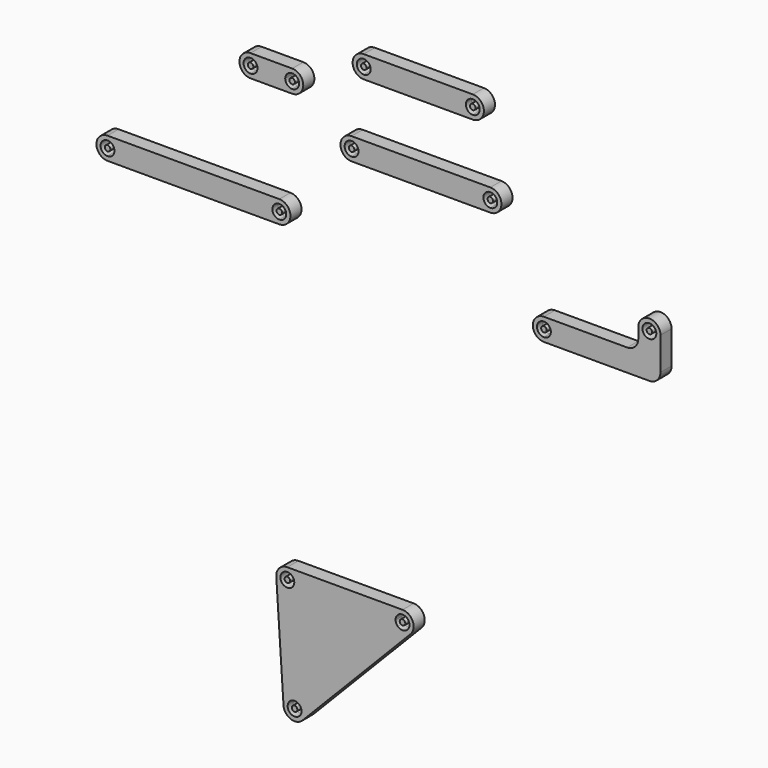
from build123d import *

# Parameters (mm, degrees)
F1_DEPTH  = 2.5
F3_DEPTH  = 2.5
F5_DEPTH  = 2.5
F7_DEPTH  = 2.5
F9_DEPTH  = 2.5
F11_DEPTH = 2.5


with BuildPart() as f1:
    # F0 (on Front) → F1 (new body, symmetric)
    with BuildSketch(Plane.XZ):
        with BuildLine():
            Line((7.5, 4), (-7.5, 4))
            Line((-7.5, 4), (-7.5, 2.5))
            ThreePointArc((-7.5, 2.5), (-5.732233047, 1.767766953), (-5, 0))
            Line((-5, 0), (5, 0))
            ThreePointArc((5, 0), (5.732233047, 1.767766953), (7.5, 2.5))
            Line((7.5, 2.5), (7.5, 4))
        make_face()
        with BuildLine():
            Line((-7.5, -2.5), (-7.5, -4))
            Line((-7.5, -4), (7.5, -4))
            Line((7.5, -4), (7.5, -2.5))
            ThreePointArc((7.5, -2.5), (5.732233047, -1.767766953), (5, 0))
            Line((5, 0), (-5, 0))
            ThreePointArc((-5, 0), (-5.732233047, -1.767766953), (-7.5, -2.5))
        make_face()
        with BuildLine():
            Line((-7.5, 2.5), (-7.5, 4))
            ThreePointArc((-7.5, 4), (-11.5, 0), (-7.5, -4))
            Line((-7.5, -4), (-7.5, -2.5))
            ThreePointArc((-7.5, -2.5), (-10, 0), (-7.5, 2.5))
        make_face()
        with BuildLine():
            ThreePointArc((7.5, -4), (11.5, 0), (7.5, 4))
            Line((7.5, 4), (7.5, 2.5))
            ThreePointArc((7.5, 2.5), (9.267766953, 1.767766953), (10, 0))
            ThreePointArc((10, 0), (9.267766953, -1.767766953), (7.5, -2.5))
            Line((7.5, -2.5), (7.5, -4))
        make_face()
    extrude(amount=F1_DEPTH, both=True)


with BuildPart() as f1b:
    # F0 (on Front) → F1, piece 2 (new body, symmetric)
    with BuildSketch(Plane.XZ):
        with BuildLine():
            ThreePointArc((-6.5, 0), (-6.7928932188, 0.7071067812), (-7.5, 1))
            Line((-7.5, 1), (-7.5, 0))
            Line((-7.5, 0), (-6.5, 0))
        make_face()
        with BuildLine():
            Line((-6.5, 0), (-7.5, 0))
            Line((-7.5, 0), (-7.5, -1))
            ThreePointArc((-7.5, -1), (-6.7928932188, -0.7071067812), (-6.5, 0))
        make_face()
        with BuildLine():
            Line((-7.5, 0), (-7.5, 1))
            ThreePointArc((-7.5, 1), (-8.5, 0), (-7.5, -1))
            Line((-7.5, -1), (-7.5, 0))
        make_face()
    extrude(amount=F1_DEPTH, both=True)


with BuildPart() as f1c:
    # F0 (on Front) → F1, piece 3 (new body, symmetric)
    with BuildSketch(Plane.XZ):
        with BuildLine():
            ThreePointArc((8.5, 0), (8.2071067812, 0.7071067812), (7.5, 1))
            Line((7.5, 1), (7.5, 0))
            Line((7.5, 0), (7.5, -1))
            ThreePointArc((7.5, -1), (8.2071067812, -0.7071067812), (8.5, 0))
        make_face()
        with BuildLine():
            Line((7.5, 0), (7.5, 1))
            ThreePointArc((7.5, 1), (6.7928932188, 0.7071067812), (6.5, 0))
            Line((6.5, 0), (7.5, 0))
        make_face()
        with BuildLine():
            Line((7.5, -1), (7.5, 0))
            Line((7.5, 0), (6.5, 0))
            ThreePointArc((6.5, 0), (6.7928932188, -0.7071067812), (7.5, -1))
        make_face()
    extrude(amount=F1_DEPTH, both=True)


with BuildPart() as f3:
    # F2 (on Front) → F3 (new body, symmetric)
    with BuildSketch(Plane.XZ):
        with BuildLine():
            Line((72.5839128393, 16.9506587982), (33.2839128393, 16.9506587982))
            Line((33.2839128393, 16.9506587982), (33.2839128393, 15.4506587982))
            ThreePointArc((33.2839128393, 15.4506587982), (35.0516797923, 14.7184257512), (35.7839128393, 12.9506587982))
            ThreePointArc((35.7839128393, 12.9506587982), (35.0516797923, 11.1828918453), (33.2839128393, 10.4506587982))
            Line((33.2839128393, 10.4506587982), (33.2839128393, 8.9506587982))
            Line((33.2839128393, 8.9506587982), (72.5839128393, 8.9506587982))
            Line((72.5839128393, 8.9506587982), (72.5839128393, 10.4506587982))
            ThreePointArc((72.5839128393, 10.4506587982), (70.0839128393, 12.9506587982), (72.5839128393, 15.4506587982))
            Line((72.5839128393, 15.4506587982), (72.5839128393, 16.9506587982))
        make_face()
        with BuildLine():
            Line((33.2839128393, 15.4506587982), (33.2839128393, 16.9506587982))
            ThreePointArc((33.2839128393, 16.9506587982), (29.2839128393, 12.9506587982), (33.2839128393, 8.9506587982))
            Line((33.2839128393, 8.9506587982), (33.2839128393, 10.4506587982))
            ThreePointArc((33.2839128393, 10.4506587982), (30.7839128393, 12.9506587982), (33.2839128393, 15.4506587982))
        make_face()
        with BuildLine():
            ThreePointArc((72.5839128393, 8.9506587982), (76.5839128393, 12.9506587982), (72.5839128393, 16.9506587982))
            Line((72.5839128393, 16.9506587982), (72.5839128393, 15.4506587982))
            ThreePointArc((72.5839128393, 15.4506587982), (74.3516797923, 14.7184257512), (75.0839128393, 12.9506587982))
            ThreePointArc((75.0839128393, 12.9506587982), (74.3516797923, 11.1828918453), (72.5839128393, 10.4506587982))
            Line((72.5839128393, 10.4506587982), (72.5839128393, 8.9506587982))
        make_face()
    extrude(amount=F3_DEPTH, both=True)


with BuildPart() as f3b:
    # F2 (on Front) → F3, piece 2 (new body, symmetric)
    with BuildSketch(Plane.XZ):
        with BuildLine():
            ThreePointArc((73.5839128393, 12.9506587982), (73.2910196205, 13.6577655794), (72.5839128393, 13.9506587982))
            Line((72.5839128393, 13.9506587982), (72.5839128393, 11.9506587982))
            ThreePointArc((72.5839128393, 11.9506587982), (73.2910196205, 12.243552017), (73.5839128393, 12.9506587982))
        make_face()
        with BuildLine():
            Line((72.5839128393, 11.9506587982), (72.5839128393, 13.9506587982))
            ThreePointArc((72.5839128393, 13.9506587982), (71.5839128393, 12.9506587982), (72.5839128393, 11.9506587982))
        make_face()
    extrude(amount=F3_DEPTH, both=True)


with BuildPart() as f3c:
    # F2 (on Front) → F3, piece 3 (new body, symmetric)
    with BuildSketch(Plane.XZ):
        with BuildLine():
            ThreePointArc((34.2839128393, 12.9506587982), (33.9910196205, 13.6577655794), (33.2839128393, 13.9506587982))
            Line((33.2839128393, 13.9506587982), (33.2839128393, 11.9506587982))
            ThreePointArc((33.2839128393, 11.9506587982), (33.9910196205, 12.243552017), (34.2839128393, 12.9506587982))
        make_face()
        with BuildLine():
            Line((33.2839128393, 11.9506587982), (33.2839128393, 13.9506587982))
            ThreePointArc((33.2839128393, 13.9506587982), (32.2839128393, 12.9506587982), (33.2839128393, 11.9506587982))
        make_face()
    extrude(amount=F3_DEPTH, both=True)


with BuildPart() as f5:
    # F4 (on Front) → F5 (new body, symmetric)
    with BuildSketch(Plane.XZ):
        with BuildLine():
            Line((78.9036793634, -10.4985085353), (28.9036793634, -10.4985085353))
            Line((28.9036793634, -10.4985085353), (28.9036793634, -11.9985085353))
            ThreePointArc((28.9036793634, -11.9985085353), (30.6714463164, -12.7307415824), (31.4036793634, -14.4985085353))
            ThreePointArc((31.4036793634, -14.4985085353), (30.6714463164, -16.2662754883), (28.9036793634, -16.9985085353))
            Line((28.9036793634, -16.9985085353), (28.9036793634, -18.4985085353))
            Line((28.9036793634, -18.4985085353), (78.9036793634, -18.4985085353))
            Line((78.9036793634, -18.4985085353), (78.9036793634, -16.9985085353))
            ThreePointArc((78.9036793634, -16.9985085353), (76.4036793634, -14.4985085353), (78.9036793634, -11.9985085353))
            Line((78.9036793634, -11.9985085353), (78.9036793634, -10.4985085353))
        make_face()
        with BuildLine():
            Line((28.9036793634, -11.9985085353), (28.9036793634, -10.4985085353))
            ThreePointArc((28.9036793634, -10.4985085353), (24.9036793634, -14.4985085353), (28.9036793634, -18.4985085353))
            Line((28.9036793634, -18.4985085353), (28.9036793634, -16.9985085353))
            ThreePointArc((28.9036793634, -16.9985085353), (26.4036793634, -14.4985085353), (28.9036793634, -11.9985085353))
        make_face()
        with BuildLine():
            ThreePointArc((78.9036793634, -18.4985085353), (82.9036793634, -14.4985085353), (78.9036793634, -10.4985085353))
            Line((78.9036793634, -10.4985085353), (78.9036793634, -11.9985085353))
            ThreePointArc((78.9036793634, -11.9985085353), (80.6714463164, -12.7307415824), (81.4036793634, -14.4985085353))
            ThreePointArc((81.4036793634, -14.4985085353), (80.6714463164, -16.2662754883), (78.9036793634, -16.9985085353))
            Line((78.9036793634, -16.9985085353), (78.9036793634, -18.4985085353))
        make_face()
    extrude(amount=F5_DEPTH, both=True)


with BuildPart() as f5b:
    # F4 (on Front) → F5, piece 2 (new body, symmetric)
    with BuildSketch(Plane.XZ):
        with BuildLine():
            ThreePointArc((79.9036793634, -14.4985085353), (79.6107861446, -13.7914017541), (78.9036793634, -13.4985085353))
            Line((78.9036793634, -13.4985085353), (78.9036793634, -15.4985085353))
            ThreePointArc((78.9036793634, -15.4985085353), (79.6107861446, -15.2056153165), (79.9036793634, -14.4985085353))
        make_face()
        with BuildLine():
            Line((78.9036793634, -15.4985085353), (78.9036793634, -13.4985085353))
            ThreePointArc((78.9036793634, -13.4985085353), (77.9036793634, -14.4985085353), (78.9036793634, -15.4985085353))
        make_face()
    extrude(amount=F5_DEPTH, both=True)


with BuildPart() as f5c:
    # F4 (on Front) → F5, piece 3 (new body, symmetric)
    with BuildSketch(Plane.XZ):
        with BuildLine():
            ThreePointArc((29.9036793634, -14.4985085353), (29.6107861446, -13.7914017541), (28.9036793634, -13.4985085353))
            Line((28.9036793634, -13.4985085353), (28.9036793634, -15.4985085353))
            ThreePointArc((28.9036793634, -15.4985085353), (29.6107861446, -15.2056153165), (29.9036793634, -14.4985085353))
        make_face()
        with BuildLine():
            Line((28.9036793634, -15.4985085353), (28.9036793634, -13.4985085353))
            ThreePointArc((28.9036793634, -13.4985085353), (27.9036793634, -14.4985085353), (28.9036793634, -15.4985085353))
        make_face()
    extrude(amount=F5_DEPTH, both=True)


with BuildPart() as f7:
    # F6 (on Front) → F7 (new body, symmetric)
    with BuildSketch(Plane.XZ):
        with BuildLine():
            Line((-59.0310354743, -45.4357159883), (-59.0310354743, -46.9357159883))
            Line((-59.0310354743, -46.9357159883), (2.8689645257, -46.9357159883))
            Line((2.8689645257, -46.9357159883), (2.8689645257, -45.4357159883))
            ThreePointArc((2.8689645257, -45.4357159883), (0.3689645257, -42.9357159883), (2.8689645257, -40.4357159883))
            Line((2.8689645257, -40.4357159883), (2.8689645257, -38.9357159883))
            Line((2.8689645257, -38.9357159883), (-59.0310354743, -38.9357159883))
            Line((-59.0310354743, -38.9357159883), (-59.0310354743, -40.4357159883))
            ThreePointArc((-59.0310354743, -40.4357159883), (-57.2632685213, -41.1679490353), (-56.5310354743, -42.9357159883))
            ThreePointArc((-56.5310354743, -42.9357159883), (-57.2632685213, -44.7034829412), (-59.0310354743, -45.4357159883))
        make_face()
        with BuildLine():
            ThreePointArc((-59.0310354743, -38.9357159883), (-63.0310354743, -42.9357159883), (-59.0310354743, -46.9357159883))
            Line((-59.0310354743, -46.9357159883), (-59.0310354743, -45.4357159883))
            ThreePointArc((-59.0310354743, -45.4357159883), (-61.5310354743, -42.9357159883), (-59.0310354743, -40.4357159883))
            Line((-59.0310354743, -40.4357159883), (-59.0310354743, -38.9357159883))
        make_face()
        with BuildLine():
            Line((2.8689645257, -45.4357159883), (2.8689645257, -46.9357159883))
            ThreePointArc((2.8689645257, -46.9357159883), (6.8689645257, -42.9357159883), (2.8689645257, -38.9357159883))
            Line((2.8689645257, -38.9357159883), (2.8689645257, -40.4357159883))
            ThreePointArc((2.8689645257, -40.4357159883), (4.6367314787, -41.1679490353), (5.3689645257, -42.9357159883))
            ThreePointArc((5.3689645257, -42.9357159883), (4.6367314787, -44.7034829412), (2.8689645257, -45.4357159883))
        make_face()
    extrude(amount=F7_DEPTH, both=True)


with BuildPart() as f7b:
    # F6 (on Front) → F7, piece 2 (new body, symmetric)
    with BuildSketch(Plane.XZ):
        with BuildLine():
            Line((-59.0310354743, -41.9357159883), (-59.0310354743, -43.9357159883))
            ThreePointArc((-59.0310354743, -43.9357159883), (-58.3239286931, -43.6428227695), (-58.0310354743, -42.9357159883))
            ThreePointArc((-58.0310354743, -42.9357159883), (-58.3239286931, -42.2286092071), (-59.0310354743, -41.9357159883))
        make_face()
        with BuildLine():
            ThreePointArc((-59.0310354743, -41.9357159883), (-60.0310354743, -42.9357159883), (-59.0310354743, -43.9357159883))
            Line((-59.0310354743, -43.9357159883), (-59.0310354743, -41.9357159883))
        make_face()
    extrude(amount=F7_DEPTH, both=True)


with BuildPart() as f7c:
    # F6 (on Front) → F7, piece 3 (new body, symmetric)
    with BuildSketch(Plane.XZ):
        with BuildLine():
            Line((2.8689645257, -41.9357159883), (2.8689645257, -43.9357159883))
            ThreePointArc((2.8689645257, -43.9357159883), (3.5760713069, -43.6428227695), (3.8689645257, -42.9357159883))
            ThreePointArc((3.8689645257, -42.9357159883), (3.5760713069, -42.2286092071), (2.8689645257, -41.9357159883))
        make_face()
        with BuildLine():
            ThreePointArc((2.8689645257, -41.9357159883), (1.8689645257, -42.9357159883), (2.8689645257, -43.9357159883))
            Line((2.8689645257, -43.9357159883), (2.8689645257, -41.9357159883))
        make_face()
    extrude(amount=F7_DEPTH, both=True)


with BuildPart() as f9:
    # F8 (on Front) → F9 (new body, symmetric)
    with BuildSketch(Plane.XZ):
        with BuildLine():
            Line((128.2148455381, -45.2421121299), (98.2148455381, -45.2421121299))
            Line((98.2148455381, -45.2421121299), (98.2148455381, -46.7421121299))
            ThreePointArc((98.2148455381, -46.7421121299), (99.9826124911, -47.474345177), (100.7148455381, -49.2421121299))
            ThreePointArc((100.7148455381, -49.2421121299), (99.9826124911, -51.0098790829), (98.2148455381, -51.7421121299))
            Line((98.2148455381, -51.7421121299), (98.2148455381, -53.2421121299))
            Line((98.2148455381, -53.2421121299), (136.2148455381, -53.2421121299))
            ThreePointArc((136.2148455381, -53.2421121299), (139.0432726629, -52.0705392547), (140.2148455381, -49.2421121299))
            Line((140.2148455381, -49.2421121299), (140.2148455381, -45.2421121299))
            Line((140.2148455381, -45.2421121299), (140.2148455381, -37.4421121299))
            Line((140.2148455381, -37.4421121299), (138.7148455381, -37.4421121299))
            ThreePointArc((138.7148455381, -37.4421121299), (136.2148455381, -39.9421121299), (133.7148455381, -37.4421121299))
            Line((133.7148455381, -37.4421121299), (132.2148455381, -37.4421121299))
            Line((132.2148455381, -37.4421121299), (132.2148455381, -41.2421121299))
            ThreePointArc((132.2148455381, -41.2421121299), (131.0432726629, -44.0705392547), (128.2148455381, -45.2421121299))
        make_face()
        with BuildLine():
            Line((98.2148455381, -46.7421121299), (98.2148455381, -45.2421121299))
            ThreePointArc((98.2148455381, -45.2421121299), (94.2148455381, -49.2421121299), (98.2148455381, -53.2421121299))
            Line((98.2148455381, -53.2421121299), (98.2148455381, -51.7421121299))
            ThreePointArc((98.2148455381, -51.7421121299), (95.7148455381, -49.2421121299), (98.2148455381, -46.7421121299))
        make_face()
        with BuildLine():
            ThreePointArc((140.2148455381, -37.4421121299), (136.2148455381, -33.4421121299), (132.2148455381, -37.4421121299))
            Line((132.2148455381, -37.4421121299), (133.7148455381, -37.4421121299))
            ThreePointArc((133.7148455381, -37.4421121299), (136.2148455381, -34.9421121299), (138.7148455381, -37.4421121299))
            Line((138.7148455381, -37.4421121299), (140.2148455381, -37.4421121299))
        make_face()
    extrude(amount=F9_DEPTH, both=True)


with BuildPart() as f9b:
    # F8 (on Front) → F9, piece 2 (new body, symmetric)
    with BuildSketch(Plane.XZ):
        with BuildLine():
            ThreePointArc((99.2148455381, -49.2421121299), (98.9219523193, -48.5350053487), (98.2148455381, -48.2421121299))
            Line((98.2148455381, -48.2421121299), (98.2148455381, -50.2421121299))
            ThreePointArc((98.2148455381, -50.2421121299), (98.9219523193, -49.9492189111), (99.2148455381, -49.2421121299))
        make_face()
        with BuildLine():
            Line((98.2148455381, -50.2421121299), (98.2148455381, -48.2421121299))
            ThreePointArc((98.2148455381, -48.2421121299), (97.2148455381, -49.2421121299), (98.2148455381, -50.2421121299))
        make_face()
    extrude(amount=F9_DEPTH, both=True)


with BuildPart() as f9c:
    # F8 (on Front) → F9, piece 3 (new body, symmetric)
    with BuildSketch(Plane.XZ):
        with BuildLine():
            ThreePointArc((137.2148455381, -37.4421121299), (136.2148455381, -36.4421121299), (135.2148455381, -37.4421121299))
            Line((135.2148455381, -37.4421121299), (137.2148455381, -37.4421121299))
        make_face()
        with BuildLine():
            Line((137.2148455381, -37.4421121299), (135.2148455381, -37.4421121299))
            ThreePointArc((135.2148455381, -37.4421121299), (136.2148455381, -38.4421121299), (137.2148455381, -37.4421121299))
        make_face()
    extrude(amount=F9_DEPTH, both=True)


with BuildPart() as f11:
    # F10 (on Front) → F11 (new body, symmetric)
    with BuildSketch(Plane.XZ):
        with BuildLine():
            Line((47.2636240073, -154.7737859799), (5.7636240073, -154.7737859799))
            ThreePointArc((5.7636240073, -154.7737859799), (2.8446046141, -156.0389503757), (1.7721049243, -159.034123089))
            Line((1.7721049243, -159.034123089), (4.3819844424, -199.0491018957))
            ThreePointArc((4.3819844424, -199.0491018957), (6.990621659, -202.5421149893), (11.2419607875, -201.5765870434))
            Line((11.2419607875, -201.5765870434), (50.1320812694, -161.5616082367))
            ThreePointArc((50.1320812694, -161.5616082367), (50.9481381562, -157.2167517843), (47.2636240073, -154.7737859799))
        make_face()
        with BuildLine():
            ThreePointArc((5.9263347005, -161.2684854068), (3.9392368865, -157.0645137273), (8.2636240073, -158.7737859799))
            Line((8.2636240073, -158.7737859799), (44.7636240073, -158.7737859799))
            ThreePointArc((44.7636240073, -158.7737859799), (47.2636240073, -156.2737859799), (49.7636240073, -158.7737859799))
            ThreePointArc((49.7636240073, -158.7737859799), (48.2367703796, -161.076607323), (45.5212350968, -160.5665717688))
            Line((45.5212350968, -160.5665717688), (10.1158924359, -196.9959789978))
            ThreePointArc((10.1158924359, -196.9959789978), (10.6763248685, -197.8156184143), (10.8735035254, -198.7887647866))
            ThreePointArc((10.8735035254, -198.7887647866), (6.6642312728, -200.6131519074), (8.2107928322, -196.2940653598))
            Line((8.2107928322, -196.2940653598), (5.9263347005, -161.2684854068))
        make_face(mode=Mode.SUBTRACT)
        with BuildLine():
            Line((44.7636240073, -158.7737859799), (8.2636240073, -158.7737859799))
            ThreePointArc((8.2636240073, -158.7737859799), (7.5880111281, -160.4830582325), (5.9263347005, -161.2684854068))
            Line((5.9263347005, -161.2684854068), (8.2107928322, -196.2940653598))
            ThreePointArc((8.2107928322, -196.2940653598), (9.2378046919, -196.44292091), (10.1158924359, -196.9959789978))
            Line((10.1158924359, -196.9959789978), (45.5212350968, -160.5665717688))
            ThreePointArc((45.5212350968, -160.5665717688), (44.9608026642, -159.7469323522), (44.7636240073, -158.7737859799))
        make_face()
    extrude(amount=F11_DEPTH, both=True)


with BuildPart() as f11b:
    # F10 (on Front) → F11, piece 2 (new body, symmetric)
    with BuildSketch(Plane.XZ):
        with BuildLine():
            ThreePointArc((9.0704590896, -198.0716504711), (8.719223992, -197.850427236), (8.3084192481, -197.7908850159))
            Line((8.3084192481, -197.7908850159), (8.3735035254, -198.7887647866))
            Line((8.3735035254, -198.7887647866), (9.0704590896, -198.0716504711))
        make_face()
        with BuildLine():
            Line((8.3735035254, -198.7887647866), (8.3084192481, -197.7908850159))
            ThreePointArc((8.3084192481, -197.7908850159), (7.6897946243, -199.5185196349), (9.3735035254, -198.7887647866))
            ThreePointArc((9.3735035254, -198.7887647866), (9.2946320626, -198.3995062377), (9.0704590896, -198.0716504711))
            Line((9.0704590896, -198.0716504711), (8.3735035254, -198.7887647866))
        make_face()
    extrude(amount=F11_DEPTH, both=True)


with BuildPart() as f11c:
    # F10 (on Front) → F11, piece 3 (new body, symmetric)
    with BuildSketch(Plane.XZ):
        with BuildLine():
            Line((6.7636240073, -158.7737859799), (5.7636240073, -158.7737859799))
            Line((5.7636240073, -158.7737859799), (5.8287082846, -159.7716657507))
            ThreePointArc((5.8287082846, -159.7716657507), (6.4933788556, -159.457494881), (6.7636240073, -158.7737859799))
        make_face()
        with BuildLine():
            Line((5.8287082846, -159.7716657507), (5.7636240073, -158.7737859799))
            Line((5.7636240073, -158.7737859799), (6.7636240073, -158.7737859799))
            ThreePointArc((6.7636240073, -158.7737859799), (5.033869159, -158.0900770789), (5.8287082846, -159.7716657507))
        make_face()
    extrude(amount=F11_DEPTH, both=True)


with BuildPart() as f11d:
    # F10 (on Front) → F11, piece 4 (new body, symmetric)
    with BuildSketch(Plane.XZ):
        with BuildLine():
            ThreePointArc((48.2636240073, -158.7737859799), (47.2636240073, -157.7737859799), (46.2636240073, -158.7737859799))
            Line((46.2636240073, -158.7737859799), (47.2636240073, -158.7737859799))
            Line((47.2636240073, -158.7737859799), (46.5666684431, -159.4909002955))
            ThreePointArc((46.5666684431, -159.4909002955), (47.6528825562, -159.6949145172), (48.2636240073, -158.7737859799))
        make_face()
        with BuildLine():
            Line((47.2636240073, -158.7737859799), (46.2636240073, -158.7737859799))
            ThreePointArc((46.2636240073, -158.7737859799), (46.3424954701, -159.1630445288), (46.5666684431, -159.4909002955))
            Line((46.5666684431, -159.4909002955), (47.2636240073, -158.7737859799))
        make_face()
    extrude(amount=F11_DEPTH, both=True)


solid = Compound([f1.part, f1b.part, f1c.part, f3.part, f3b.part, f3c.part, f5.part, f5b.part, f5c.part, f7.part, f7b.part, f7c.part, f9.part, f9b.part, f9c.part, f11.part, f11b.part, f11c.part, f11d.part])
